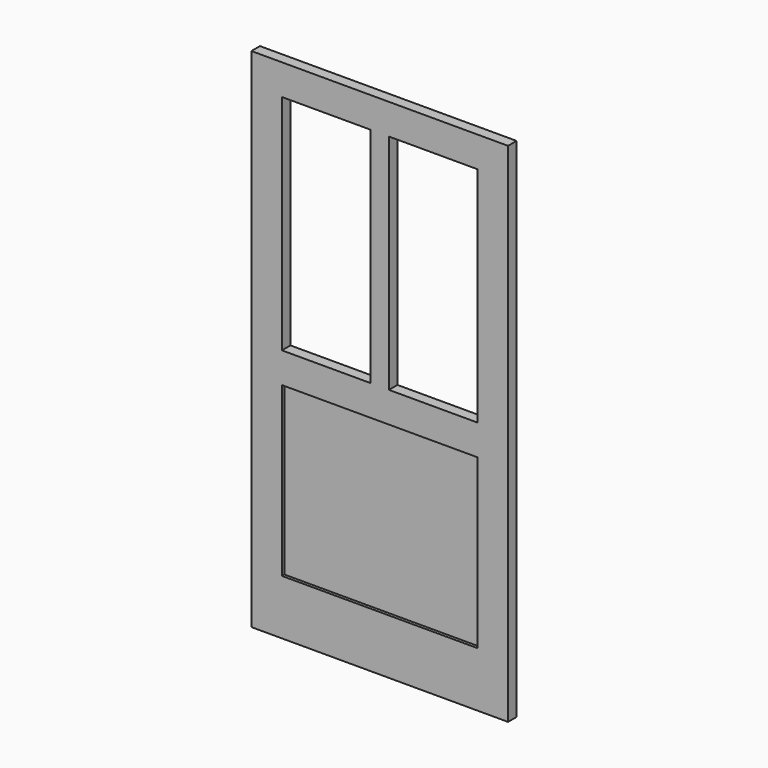
from build123d import *

# Parameters (mm, degrees)
F0_W     = 1066.8
F0_H     = 2108.2
F0_W_2   = 76.2
F0_H_2   = 927.1
F1_DEPTH = 22.225
F0_W_3   = 812.8
F0_H_3   = 698.5
F2_DEPTH = 9.525


with BuildPart() as f1:
    # F0 (on Front) → F1 (new body, symmetric)
    with BuildSketch(Plane.XZ):
        Rectangle(F0_W, F0_H)
        Polygon((-406.4, 0), (-406.4, 927.1), (-38.1, 927.1), (38.1, 927.1), (406.4, 927.1), (406.4, 0), (406.4, -127), (406.4, -825.5), (-406.4, -825.5), (-406.4, -127), align=None, mode=Mode.SUBTRACT)
        with Locations((0, 463.55)):
            Rectangle(F0_W_2, F0_H_2)
        Polygon((-38.1, 0), (-406.4, 0), (-406.4, -127), (406.4, -127), (406.4, 0), (38.1, 0), align=None)
    extrude(amount=F1_DEPTH, both=True)

    # F0 (on Front) → F2 (join, symmetric)
    with BuildSketch(Plane.XZ):
        with Locations((0, -476.25)):
            Rectangle(F0_W_3, F0_H_3)
    extrude(amount=F2_DEPTH, both=True)


solid = f1.part
